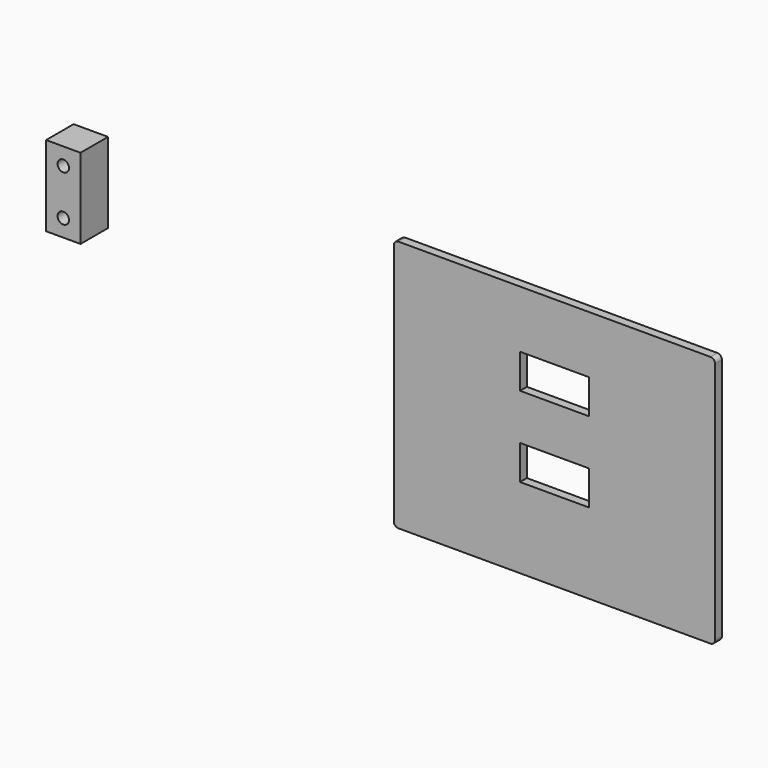
from build123d import *

# Parameters (mm, degrees)
F1_DEPTH = 9.525
F2_R     = 5.08
F3_W     = 38.1
F3_H     = 88.9
F3_R     = 6.35
F4_DEPTH = 38.1


with BuildPart() as f1:
    # F0 (on Front) → F1 (new body)
    with BuildSketch(Plane.XZ):
        Polygon((-177.8, -139.7), (177.8, -139.7), (177.8, 139.7), (0, 139.7), (-177.8, 139.7), align=None)
        Polygon((-38.1, -12.7), (0, -12.7), (38.1, -12.7), (38.1, -50.8), (-38.1, -50.8), align=None, mode=Mode.SUBTRACT)
        Polygon((-38.1, 76.2), (0, 76.2), (38.1, 76.2), (38.1, 38.1), (0, 38.1), (-38.1, 38.1), align=None, mode=Mode.SUBTRACT)
    extrude(amount=F1_DEPTH)

    # F2
    f2_edges = [f1.edges().sort_by_distance(p)[0] for p in [
        (-177.8, -4.7625, 139.7),
        (177.8, -4.7625, 139.7),
        (177.8, -4.7625, -139.7),
        (-177.8, -4.7625, -139.7),
    ]]
    fillet(f2_edges, radius=F2_R)


with BuildPart() as f4:
    # F3 (on face) → F4 (new body)
    with BuildSketch(Plane.XZ.offset(9.525)):
        with Locations((-513.168887, 92.799038)):
            Rectangle(F3_W, F3_H)
        with Locations((-513.168887, 67.399038)):
            Circle(F3_R, mode=Mode.SUBTRACT)
        with Locations((-513.168887, 118.199038)):
            Circle(F3_R, mode=Mode.SUBTRACT)
    extrude(amount=F4_DEPTH)


solid = Compound([f1.part, f4.part])
